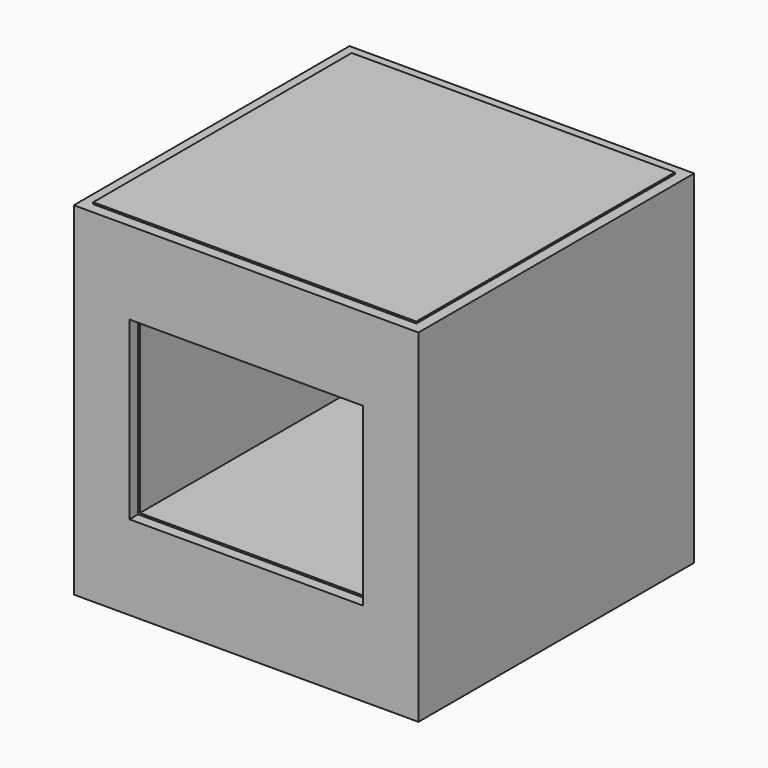
from build123d import *

# Parameters (mm, degrees)
F0_W     = 609.6
F0_H     = 609.6
F0_W_2   = 406.4
F0_H_2   = 304.8
F1_DEPTH = 609.6
F2_W     = 609.6
F2_H     = 609.6
F2_W_2   = 571.5
F2_H_2   = 571.5
F3_DEPTH = 3.175
F4_W     = 412.75
F4_H     = 311.15
F4_W_2   = 406.4
F4_H_2   = 304.8
F5_DEPTH = 19.05
F6_W     = 412.75
F6_H     = 311.15
F6_W_2   = 406.4
F6_H_2   = 304.8
F7_DEPTH = 19.05


with BuildPart() as f1:
    # F0 (on Front) → F1 (new body)
    with BuildSketch(Plane.XZ):
        with Locations((-304.8, 304.8)):
            Rectangle(F0_W, F0_H)
        with Locations((-304.8, 304.8)):
            Rectangle(F0_W_2, F0_H_2, mode=Mode.SUBTRACT)
    extrude(amount=-F1_DEPTH)

    # F2 (on face) → F3 (cut)
    with BuildSketch(Plane.XY.offset(609.6)):
        with Locations((-304.8, 304.8)):
            Rectangle(F2_W, F2_H)
        with Locations((-304.8, 304.8)):
            Rectangle(F2_W_2, F2_H_2, mode=Mode.SUBTRACT)
    extrude(amount=-F3_DEPTH, mode=Mode.SUBTRACT)

    # F4 (on face) → F5 (cut)
    with BuildSketch(Plane.XZ):
        with Locations((-304.8, 304.8)):
            Rectangle(F4_W, F4_H)
        with Locations((-304.8, 304.8)):
            Rectangle(F4_W_2, F4_H_2, mode=Mode.SUBTRACT)
    extrude(amount=-F5_DEPTH, mode=Mode.SUBTRACT)

    # F6 (on face) → F7 (cut)
    with BuildSketch(Plane(origin=(0, 609.6, 0), x_dir=(-1, 0, 0), z_dir=(0, 1, 0))):
        with Locations((304.8, 304.8)):
            Rectangle(F6_W, F6_H)
        with Locations((304.8, 304.8)):
            Rectangle(F6_W_2, F6_H_2, mode=Mode.SUBTRACT)
    extrude(amount=-F7_DEPTH, mode=Mode.SUBTRACT)


solid = f1.part
